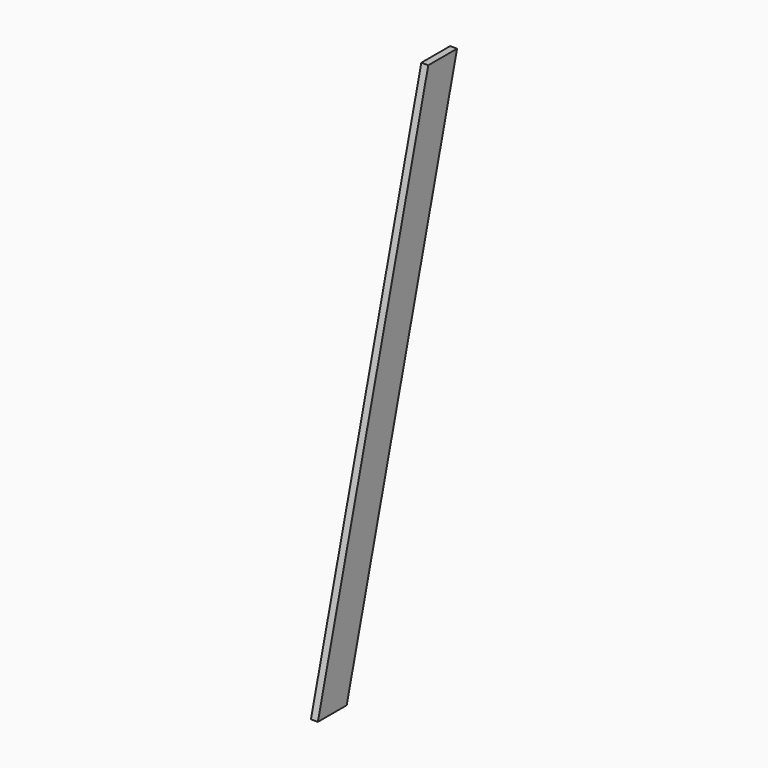
from build123d import *

# Parameters (mm, degrees)
PAD_DEPTH = 20


with BuildPart() as part:
    # Sketch → Pad (new body)
    with BuildSketch(Plane.YZ):
        Polygon((-103.5, 1500), (0, 1500), (-396.5, 0), (-500, -0.002702), align=None)
    extrude(amount=PAD_DEPTH)


solid = part.part
